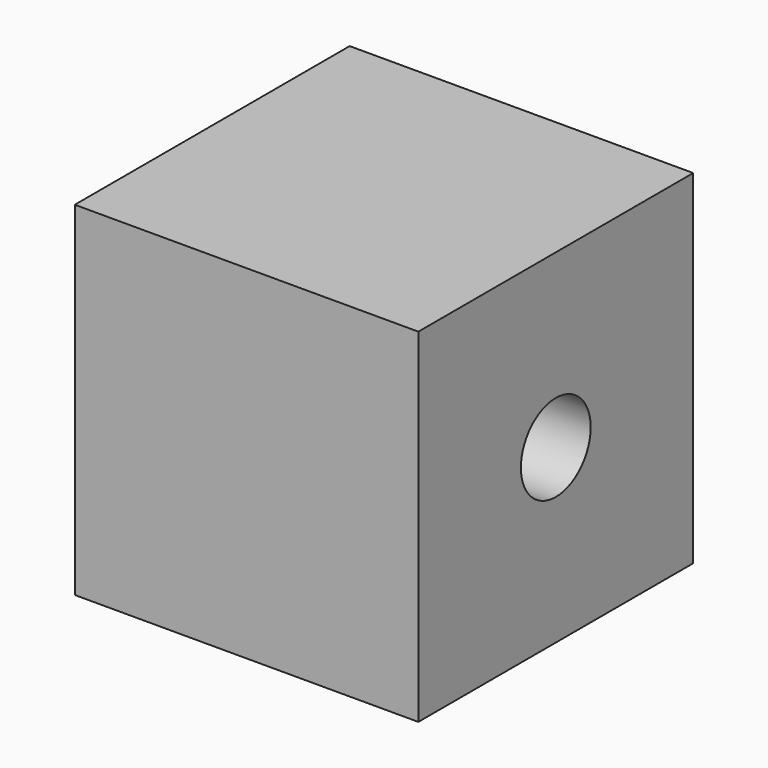
from build123d import *

# Parameters (mm, degrees)
F0_W     = 100
F0_H     = 100
F1_DEPTH = 100
F2_R     = 12.7
F3_DEPTH = 100.001


with BuildPart() as f1:
    # F0 (on Front) → F1 (new body)
    with BuildSketch(Plane.XZ):
        Rectangle(F0_W, F0_H)
    extrude(amount=F1_DEPTH)

    # F2 (on face) → F3 (cut, through all)
    with BuildSketch(Plane.YZ.offset(50)):
        with Locations((-50, 0)):
            Circle(F2_R)
    extrude(amount=-F3_DEPTH, mode=Mode.SUBTRACT)


solid = f1.part
